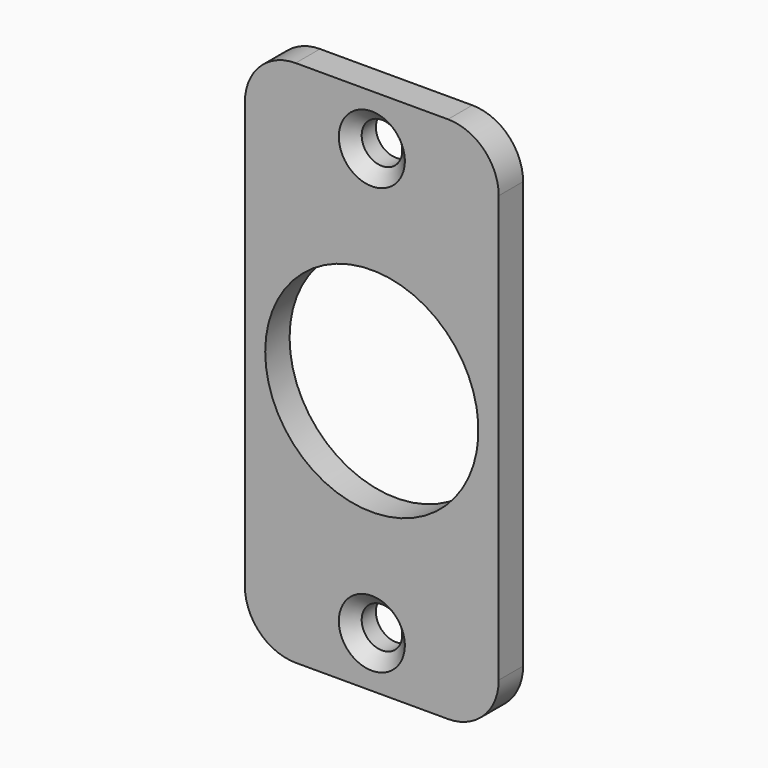
from build123d import *

# Parameters (mm, degrees)
F0_W           = 25
F0_H           = 52
F1_DEPTH       = 3
F2_R           = 5
F4_D           = 4
F4_CSINK_D     = 6.5
F4_CSINK_ANGLE = 90
F5_D           = 21


with BuildPart() as f1:
    # F0 (on Front) → F1 (new body)
    with BuildSketch(Plane.XZ):
        with Locations((12.5, 26)):
            Rectangle(F0_W, F0_H)
    extrude(amount=F1_DEPTH)

    # F2
    f2_edges = [f1.edges().sort_by_distance(p)[0] for p in [
        (25, -1.5, 52),
        (0, -1.5, 52),
        (0, -1.5, 0),
        (25, -1.5, 0),
    ]]
    fillet(f2_edges, radius=F2_R)

    # F4 (through all)
    with Locations(Plane.XZ.offset(3)):
        with Locations((12.5, 47), (12.5, 5)):
            CounterSinkHole(F4_D / 2, F4_CSINK_D / 2, counter_sink_angle=F4_CSINK_ANGLE)

    # F5 (through all)
    with Locations(Plane.XZ.offset(3)):
        with Locations((12.5, 26)):
            Hole(F5_D / 2)


solid = f1.part
